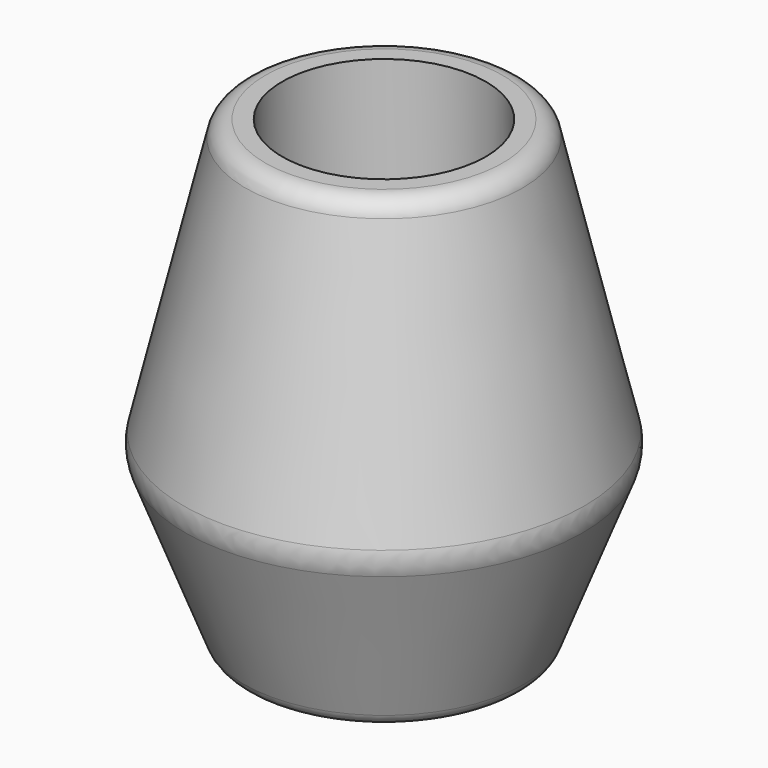
from build123d import *

# Parameters (mm, degrees)
F0_W     = 16.8275
F0_H     = 22.170253424
F0_H_2   = 35.886526576
F2_R     = 5.08
F3_R     = 2.54
F4_R     = 2.54
F5_R     = 12.7
F6_DEPTH = 25.4


with BuildPart() as f1:
    # F0 (on Front) → F1 (revolve)
    with BuildSketch(Plane.XZ):
        with Locations((-8.41375, 11.085126712)):
            Rectangle(F0_W, F0_H)
        with Locations((-8.41375, 40.113516712)):
            Rectangle(F0_W, F0_H_2)
        Polygon((-25.4, 22.170253424), (-16.8275, 0), (-16.8275, 22.170253424), align=None)
        Polygon((-25.4, 22.170253424), (-16.8275, 22.170253424), (-16.8275, 58.05678), align=None)
    revolve(axis=Axis((0, 0, 40.113516712), (0, 0, -1)))

    # F2
    f2_edges = [f1.edges().sort_by_distance(p)[0] for p in [
        (25.4, 0, 22.170253),
    ]]
    fillet(f2_edges, radius=F2_R)

    # F3
    f3_edges = [f1.edges().sort_by_distance(p)[0] for p in [
        (-20.828657, 0, 10.347817),
        (24.829814, 0, 20.695635),
        (16.8275, 0, 0),
    ]]
    fillet(f3_edges, radius=F3_R)

    # F4
    f4_edges = [f1.edges().sort_by_distance(p)[0] for p in [
        (16.8275, 0, 58.05678),
    ]]
    fillet(f4_edges, radius=F4_R)

    # F5 (on face) → F6 (cut)
    with BuildSketch(Plane.XY.offset(58.05678)):
        Circle(F5_R)
    extrude(amount=-F6_DEPTH, mode=Mode.SUBTRACT)


solid = f1.part
